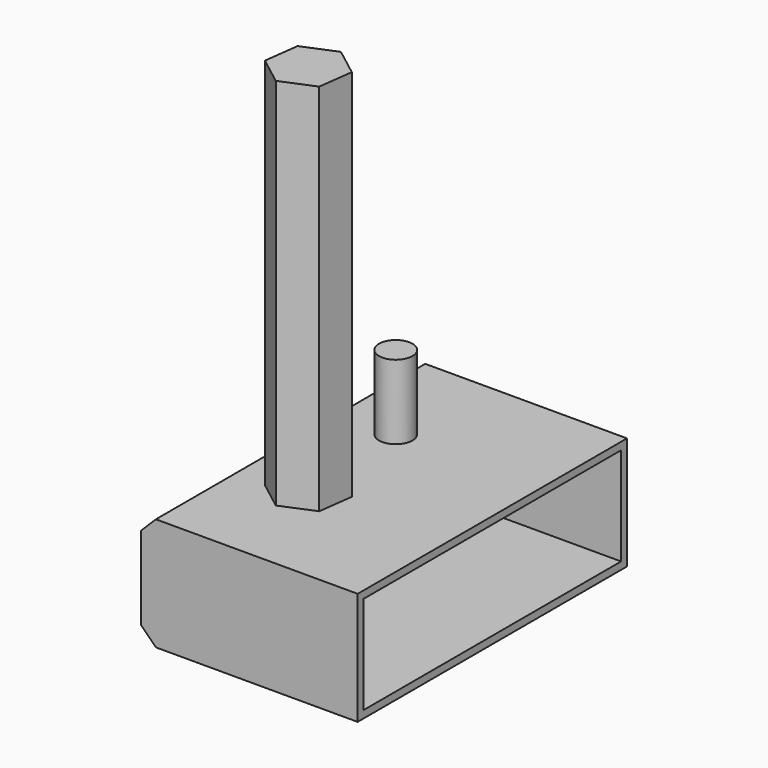
from build123d import *

# Parameters (mm, degrees)
F0_W     = 74.041
F0_H     = 38.5406240821
F1_DEPTH = 115.062
F3_DEPTH = 127.762
F4_R     = 5.7167029037
F5_DEPTH = 25.4
F6_SIZE  = 5.08
F7_SIZE  = 5.08
F8_T     = -2.54


with BuildPart() as f1:
    # F0 (on Front) → F1 (new body)
    with BuildSketch(Plane.XZ):
        with Locations((-20.778500293, 19.270312041)):
            Rectangle(F0_W, F0_H)
    extrude(amount=F1_DEPTH)

    # F2 (on face) → F3 (join)
    with BuildSketch(Plane.XY.offset(38.5406240821)):
        Polygon((-42.2897917902, -81.5107752422), (-32.7059420073, -88.8478676936), (-21.5599086631, -84.2165565412), (-19.9977251018, -72.2481529375), (-29.5815748846, -64.9110604862), (-40.7276082288, -69.5423716385), align=None)
    extrude(amount=F3_DEPTH)

    # F4 (on face) → F5 (join)
    with BuildSketch(Plane.XY.offset(38.5406240821)):
        with Locations((-33.4108434618, -36.7342457175)):
            Circle(F4_R)
    extrude(amount=F5_DEPTH)

    # F6
    f6_edges = [f1.edges().sort_by_distance(p)[0] for p in [
        (-57.799, -57.531, 0),
        (-57.799, 0, 19.270312),
    ]]
    chamfer(f6_edges, length=F6_SIZE)

    # F7
    f7_edges = [f1.edges().sort_by_distance(p)[0] for p in [
        (-57.799, -60.071, 38.540624),
    ]]
    chamfer(f7_edges, length=F7_SIZE)

    # F8
    f8_openings = [f1.faces().sort_by_distance(p)[0] for p in [
        (16.242, -57.531, 19.270312),
    ]]
    offset(amount=F8_T, openings=f8_openings, kind=Kind.INTERSECTION)


solid = f1.part
